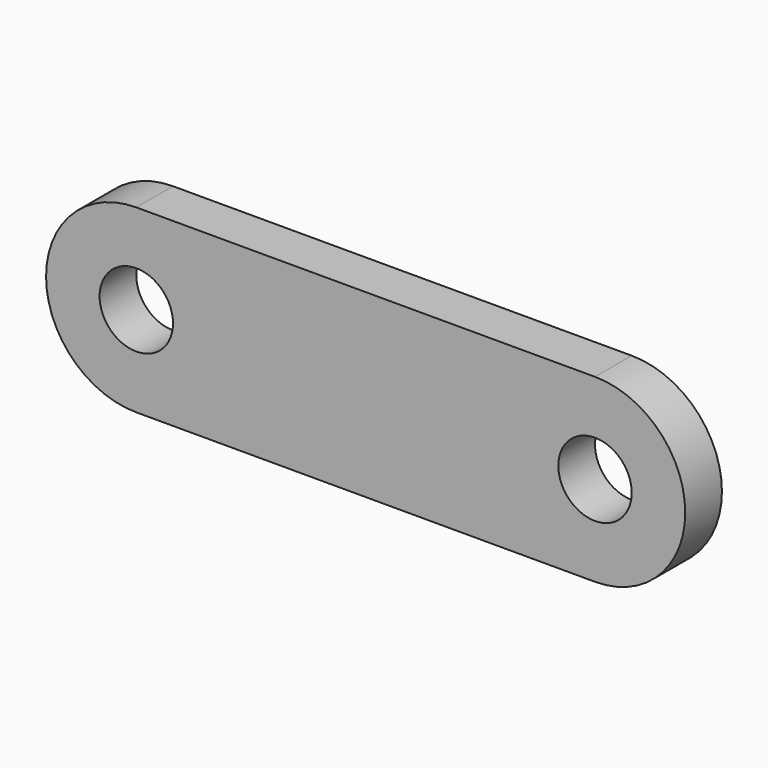
from build123d import *

# Parameters (mm, degrees)
F0_R     = 4
F1_DEPTH = 2.5


with BuildPart() as f1:
    # F0 (on Front) → F1 (new body, symmetric)
    with BuildSketch(Plane.XZ):
        with BuildLine():
            Line((0, 9.835), (-25, 9.835))
            ThreePointArc((-25, 9.835), (-34.835, 0), (-25, -9.835))
            Line((-25, -9.835), (0, -9.835))
            Line((0, -9.835), (25, -9.835))
            ThreePointArc((25, -9.835), (34.835, 0), (25, 9.835))
            Line((25, 9.835), (0, 9.835))
        make_face()
        with Locations((-25, 0)):
            Circle(F0_R, mode=Mode.SUBTRACT)
        with Locations((25, 0)):
            Circle(F0_R, mode=Mode.SUBTRACT)
    extrude(amount=F1_DEPTH, both=True)


solid = f1.part
